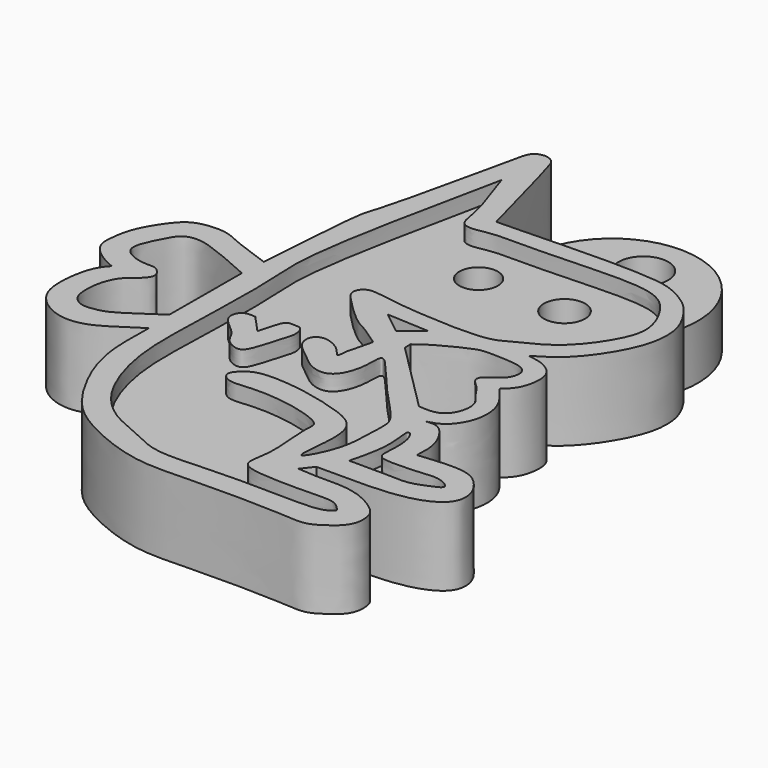
from build123d import *

# Parameters (mm, degrees)
F0_R     = 1.5875
F1_DEPTH = 3.5
F2_DEPTH = 5
F0_R_2   = 1.232335268
F0_R_3   = 1.3163060288
F3_DEPTH = 4


with BuildPart() as f1:
    # F0 (on Top) → F1 (new body)
    with BuildSketch(Plane.XY):
        with BuildLine():
            ThreePointArc((7.7396839065, 7.6562843864), (2.876112499, 14.2735710383), (-3.1393277808, 8.6827493))
            add(Edge.make_bspline(
                [(7.7396839065, 7.6562843864), (7.3353299787, 7.973602479), (6.4438153813, 8.4373196017), (5.3505573558, 8.7172548987), (2.2733176788, 8.8551510577), (-1.5200905611, 8.72823856), (-2.9921978835, 8.6867854752), (-3.1393277808, 8.6827493)],
                knots=[0.5199470909, 0.5199470909, 0.5199470909, 0.5199470909, 0.5894579981, 0.6559651047, 0.7655467002, 0.9062629632, 0.9227053128, 0.9227053128, 0.9227053128, 0.9227053128], degree=3))
        make_face()
        with Locations((2.3594668601, 11.3245500252)):
            Circle(F0_R, mode=Mode.SUBTRACT)
    extrude(amount=F1_DEPTH)

    # F0 (on Top) → F2 (join)
    with BuildSketch(Plane.XY):
        with BuildLine():
            add(Edge.make_bspline(
                [(-6.7131146789, 15.2167417109), (-6.7630142956, 15.3168491665), (-6.8653345872, 15.522121766), (-7.2052915444, 15.7161816908), (-7.396003952, 15.7313820718), (-7.4842846952, 15.7384183258)],
                knots=[0, 0, 0, 0, 0.3383046494, 0.6937013273, 1, 1, 1, 1], degree=3))
            add(Edge.make_bspline(
                [(-7.4842846952, 15.7384183258), (-7.6833791963, 15.7087810619), (-8.2273154738, 15.6278105532), (-8.5755493402, 13.8226699376), (-10.2204148253, 6.3864002607), (-10.7099999749, 5.2494188634), (-10.8984393791, 3.2367073829), (-11.2012900556, -0.9688888347), (-11.2547825871, -1.74682524), (-11.2720867619, -1.9984780811)],
                knots=[0, 0, 0, 0, 0.0725660877, 0.1982542332, 0.4637494997, 0.5729413296, 0.7071856858, 0.9052781775, 1, 1, 1, 1], degree=3))
            add(Edge.make_bspline(
                [(-11.2720867619, -1.9984780811), (-12.1304833145, -1.7025692667), (-13.6105611581, -1.1923527723), (-14.7471082661, -0.5522200993), (-16.6114662993, -0.6903068662), (-17.5337750522, -1.5042948558), (-18.6447251215, -3.2806224042), (-18.8297672099, -4.567574403), (-18.9411752234, -5.7397105059), (-17.8687660769, -6.6902392946), (-17.223731343, -6.9699811885), (-16.9197693467, -7.1018049493)],
                knots=[0, 0, 0, 0, 0.1446673864, 0.2494406491, 0.3684070195, 0.470057624, 0.6008186566, 0.7063885072, 0.8011402581, 0.9062906213, 1, 1, 1, 1], degree=3))
            add(Edge.make_bspline(
                [(-16.9197693467, -7.1018049493), (-17.121853175, -7.334070705), (-17.6312974966, -7.9196023199), (-18.0214851857, -10.3708574365), (-17.4675692026, -11.9480527547), (-15.888253352, -13.0295682461), (-14.0104892978, -13.0017665671), (-12.3744063178, -11.8865906073), (-11.6140966158, -11.4023105401), (-11.2720867619, -11.1844670027)],
                knots=[0, 0, 0, 0, 0.1124661014, 0.2835220277, 0.4251282402, 0.5715547262, 0.7197766762, 0.8739472379, 1, 1, 1, 1], degree=3))
            add(Edge.make_bspline(
                [(-11.2720867619, -11.1844670027), (-11.2932760201, -11.9793550496), (-11.3361432925, -13.5874661953), (-10.9866863237, -16.0037984915), (-9.2960385187, -19.2768428418), (-7.5572810602, -20.91483257), (-4.7286591812, -22.236723075), (-2.2057377886, -22.8409314499), (0.8374936317, -22.6656578), (6.0660421038, -22.6714198607), (7.9715621986, -22.9342932012), (8.9640566764, -22.3186765558), (10.0337379973, -21.5043624838), (10.0586932775, -20.2123362794), (9.6218985448, -19.4862490915), (7.7686135277, -18.3675422544), (5.3849969333, -18.5073030921), (4.4542524622, -18.4299059235), (4.0605748072, -18.3971691877)],
                knots=[0, 0, 0, 0, 0.0652108629, 0.131925893, 0.2121575983, 0.2782386701, 0.3520611194, 0.419387045, 0.4947765127, 0.5923853593, 0.6499376006, 0.693755899, 0.7418498565, 0.7871780839, 0.8250004336, 0.8857830065, 0.9516895565, 1, 1, 1, 1], degree=3))
            add(Edge.make_bspline(
                [(4.0605748072, -18.3971691877), (4.2495870342, -18.1552339345), (4.4385992611, -17.9132986814), (4.6276114881, -17.6713634282)],
                knots=[0, 0, 0, 0, 0.9210453832, 0.9210453832, 0.9210453832, 0.9210453832], degree=3))
            add(Edge.make_bspline(
                [(4.6276114881, -17.6713634282), (5.5246286995, -17.6794030058), (7.3781177081, -17.6960150266), (10.4621808749, -17.573742901), (12.502468857, -16.5423783026), (12.5727909991, -15.112637135), (11.914377568, -14.0907026512), (10.8629332383, -13.2476090299), (8.4772078301, -13.4730328418), (7.9465266149, -13.5248848276), (7.7576520853, -13.5433394462)],
                knots=[0, 0, 0, 0, 0.1579493428, 0.3263676182, 0.4620676098, 0.5656508391, 0.6673788049, 0.7757713264, 0.9201948664, 1, 1, 1, 1], degree=3))
            add(Edge.make_bspline(
                [(7.7576520853, -13.5433394462), (7.7781992438, -13.1846724057), (7.8197978893, -12.4585348684), (7.4964190811, -11.4085784874), (6.6820786936, -10.3099866048), (6.0622817749, -10.3969744638), (5.7843648829, -10.4359798133)],
                knots=[0, 0, 0, 0, 0.2513917168, 0.508953825, 0.7798149318, 1, 1, 1, 1], degree=3))
            add(Edge.make_bspline(
                [(5.7843648829, -10.4359798133), (6.122828556, -10.352185831), (6.8814829381, -10.164364576), (7.823853652, -8.6668950344), (7.7231720162, -7.0876023237), (7.1644552358, -6.1394390993), (6.7184744829, -5.6216717071), (6.4988322556, -5.36667509)],
                knots=[0, 0, 0, 0, 0.1847887634, 0.4141974938, 0.6354798376, 0.8204765119, 1, 1, 1, 1], degree=3))
            add(Edge.make_bspline(
                [(6.4988322556, -5.36667509), (6.7365615309, -5.1548853315), (7.2498798226, -4.6975770889), (7.5426500943, -3.3471962786), (7.2946518666, -2.4030372986), (6.3854380874, -1.8088378836), (5.7345252153, -1.7159116839), (5.4101222195, -1.6695989762)],
                knots=[0, 0, 0, 0, 0.194435585, 0.4198361444, 0.6084124825, 0.8048399882, 1, 1, 1, 1], degree=3))
            add(Edge.make_bspline(
                [(5.4101222195, -1.6695989762), (5.8636217221, -1.4034917527), (6.8387354434, -0.8313085342), (8.2222581931, 0.7923438764), (9.4089783772, 3.0481913568), (9.4974224368, 4.8880648389), (9.0555669611, 6.0933365127), (8.3540052121, 7.1451977741), (7.8104248025, 7.6007702325), (7.7396839065, 7.6562843864)],
                knots=[0, 0, 0, 0, 0.0795715401, 0.171094566, 0.2714456318, 0.3544356396, 0.4243833943, 0.5077862993, 0.5199470909, 0.5199470909, 0.5199470909, 0.5199470909], degree=3))
            add(Edge.make_bspline(
                [(7.7396839065, 7.6562843864), (7.3353299787, 7.973602479), (6.4438153813, 8.4373196017), (5.3505573558, 8.7172548987), (2.2733176788, 8.8551510577), (-1.5200905611, 8.72823856), (-2.9921978835, 8.6867854752), (-3.1393277808, 8.6827493)],
                knots=[0.5199470909, 0.5199470909, 0.5199470909, 0.5199470909, 0.5894579981, 0.6559651047, 0.7655467002, 0.9062629632, 0.9227053128, 0.9227053128, 0.9227053128, 0.9227053128], degree=3))
            add(Edge.make_bspline(
                [(-3.1393277808, 8.6827493), (-3.8309782839, 8.6637754365), (-4.3704584754, 8.6514479666), (-4.909938667, 8.6391204968)],
                knots=[0.9227053128, 0.9227053128, 0.9227053128, 0.9227053128, 1, 1, 1, 1], degree=3))
            add(Edge.make_bspline(
                [(-4.909938667, 8.6391204968), (-5.6676122103, 11.4786248377), (-6.5700733675, 14.8607442165), (-6.6933384703, 15.1675231974), (-6.7131146789, 15.2167417109)],
                knots=[0, 0, 0, 0, 0.8395636058, 1, 1, 1, 1], degree=3))
        make_face()
        with BuildLine():
            add(Edge.make_bspline(
                [(-11.3625265658, -3.6352192983), (-11.8157661278, -3.4276743062), (-12.7127614565, -3.0169270898), (-14.0627229714, -2.4879860259), (-15.0574666098, -2.1276094928), (-16.227253194, -2.1976389225), (-16.7429117394, -3.1793467277), (-17.3183412593, -4.2760627928), (-17.4325181312, -5.133713404), (-16.7331254262, -5.6817840075), (-15.7684086672, -5.8818783678), (-15.1290414203, -5.7888695808), (-14.7091473081, -6.2043035113), (-14.5112016042, -6.6120731564), (-14.9739178775, -7.2451939143), (-15.7381697185, -7.6986460025), (-16.2682191669, -8.7861940115), (-16.3697230564, -9.9282690647), (-16.240950057, -10.8710013924), (-15.5160234132, -11.3652392246), (-14.7939431208, -11.3008276823), (-13.9624142658, -11.1387702282), (-12.8118329155, -10.3720343591), (-11.8810583714, -9.7428391859), (-11.3852079958, -9.4076488167)],
                knots=[0, 0, 0, 0, 0.0570006065, 0.1128085058, 0.1609819563, 0.2079447649, 0.2552861136, 0.3077634052, 0.3483163014, 0.3895762402, 0.4358491617, 0.4722874849, 0.506185543, 0.5353909539, 0.573985279, 0.6181089129, 0.6682231081, 0.7184064337, 0.7624405274, 0.803276666, 0.8419544087, 0.8840530197, 0.9382317081, 1, 1, 1, 1], degree=3))
            add(Edge.make_bspline(
                [(-11.3852079958, -9.4076488167), (-11.3776475191, -7.4835056439), (-11.3700870425, -5.5593624711), (-11.3625265658, -3.6352192983)],
                knots=[0, 0, 0, 0, 5.772474079, 5.772474079, 5.772474079, 5.772474079], degree=3))
        make_face(mode=Mode.SUBTRACT)
        with BuildLine():
            add(Edge.make_bspline(
                [(6.0491887853, -11.9331190363), (5.9815161188, -11.9055706001), (5.7596005786, -11.8152324118), (5.9814555694, -12.9563461475), (5.9378786096, -14.4062015785), (5.6461479499, -15.5438873881), (5.4960786365, -16.1291249096)],
                knots=[0, 0, 0, 0, 0.1050987355, 0.3446449491, 0.6628784832, 1, 1, 1, 1], degree=3))
            add(Edge.make_bspline(
                [(5.4960786365, -16.1291249096), (6.1293635925, -16.1180142659), (7.3768350426, -16.0961280506), (9.2502239266, -16.2452071682), (10.1878434038, -15.8178730693), (11.3200709645, -15.4011399842), (10.2280450812, -14.7637896289), (9.2618587315, -14.9132649113), (7.5284359608, -14.9935530908), (6.3916887124, -14.9219257569), (6.35239181, -14.1607470542), (6.4584149188, -13.2690217896), (6.3096833011, -12.3129965003), (6.1241546881, -12.0424413264), (6.0491887853, -11.9331190363)],
                knots=[0, 0, 0, 0, 0.1127687281, 0.2221366028, 0.3081957509, 0.38034195, 0.4527296706, 0.5367059519, 0.6455458909, 0.7256715178, 0.7879509121, 0.8673264447, 0.946391057, 1, 1, 1, 1], degree=3))
        make_face(mode=Mode.SUBTRACT)
        with BuildLine():
            add(Edge.make_bspline(
                [(-7.5257173739, 12.3338634148), (-7.7914941856, 11.0746258762), (-8.4219487675, 8.0875628931), (-10.1252723915, -0.4147410716), (-9.6775748592, -3.3999002316), (-9.903350351, -9.8175564371), (-9.9705606988, -13.7609007122), (-8.8363542111, -17.4638623335), (-6.925915164, -19.6182538991), (-4.4916212533, -20.506992615), (-2.7447999089, -21.5072954642), (1.1042973864, -21.1384336112), (5.9192728073, -21.245809074), (7.6275573308, -21.2408492441), (8.4870069637, -20.769547862), (8.1874212021, -20.4849960922), (7.6942858982, -19.9848128942), (6.0155804716, -20.0818104668), (2.9338268169, -20.0814961096), (1.4030855154, -19.6528757439), (2.0505893855, -17.9419824478), (1.5517400842, -14.8455988958), (1.8682184745, -13.9918830166), (-0.1758507059, -13.2403517337), (-2.9350322976, -12.9401813812), (-4.6323686016, -13.2928756183), (-5.2931668546, -12.571621981), (-4.7868456945, -11.9672962567), (-4.0185976504, -11.3983637237), (-1.5208984725, -11.4872605001), (1.299201905, -12.1592839163), (3.321730471, -13.0064642836), (3.4131935936, -15.1624204797), (2.9711487612, -18.0452728269), (4.3678685535, -15.4123438284), (4.4467714778, -13.7616288193), (4.5141065479, -12.1985880007), (4.4527282818, -11.2817479838), (2.3804596876, -9.2795984134), (0.7479121016, -7.219047754), (-0.3807055734, -6.0287865422), (-0.1678861532, -7.8001853742), (-0.8716787966, -9.6282322495), (-2.3613367852, -9.4802358434), (-3.4078384646, -8.4687717116), (-4.2890590118, -7.8704670781), (-4.4885517874, -6.9524295355), (-3.8579923253, -6.4330503791), (-2.8969258717, -6.7679881768), (-2.3872350747, -7.226638344), (-2.0132288008, -7.7896736174), (-2.0244204873, -6.9407177358), (-1.7925533304, -6.3209214978), (-1.6560269259, -5.6928226345), (-1.583176665, -5.3576701321)],
                knots=[0, 0, 0, 0, 0.0302536175, 0.0717652216, 0.0978694291, 0.1333686985, 0.1626801972, 0.1901689678, 0.2141511575, 0.2367181338, 0.2564668931, 0.2846337336, 0.3165301542, 0.335392472, 0.3473287166, 0.3547060296, 0.3659733869, 0.3843182512, 0.4102468277, 0.4258249594, 0.4436546267, 0.4692273508, 0.4810729106, 0.5004702465, 0.5253596912, 0.5436904278, 0.5554699255, 0.5668571522, 0.5804251603, 0.6026667899, 0.6278012033, 0.6475244626, 0.6688026263, 0.6878850039, 0.7069516857, 0.7271169005, 0.7444035006, 0.7575224324, 0.7813756853, 0.8061856461, 0.8200572252, 0.8359808822, 0.8554759542, 0.8710540828, 0.8883910616, 0.9031524716, 0.9158460099, 0.9273637306, 0.9412353137, 0.9538427829, 0.9627422161, 0.9733982175, 0.9858053334, 1, 1, 1, 1], degree=3))
            add(Edge.make_bspline(
                [(-1.583176665, -5.3576701321), (-1.9863414466, -5.0650903894), (-2.7312853533, -4.524478941), (-3.6282856661, -4.1617029669), (-5.2086914951, -2.6169502715), (-5.9312354745, -1.8171234206), (-5.5385930779, -1.119936165), (-4.8001662392, -1.0270973914), (-3.3307730588, -1.4024578996), (2.5877742823, -1.7944194436), (3.7226728027, -0.9653691833), (5.9911187874, -0.0198996935), (7.7522803292, 2.3333824074), (8.4979497607, 4.3120127508), (7.4957635704, 6.4440246095), (5.8346237501, 7.9911434513), (-0.3460608054, 7.4305262534), (-4.1321723611, 7.6297716616), (-5.3541108037, 7.2414164454), (-6.2338623538, 7.4345794984), (-6.323467238, 8.9432063535), (-7.0598360204, 11.0199572202), (-7.5257173739, 12.3338634148)],
                knots=[0, 0, 0, 0, 0.0420556796, 0.0777079836, 0.1308242903, 0.1663494919, 0.1939531436, 0.2217157851, 0.2669100531, 0.3526984384, 0.3956526737, 0.4495850534, 0.5107773151, 0.5612985451, 0.6131904938, 0.6641308513, 0.7525724797, 0.823144131, 0.861532842, 0.8906003867, 0.9307857134, 1, 1, 1, 1], degree=3))
        make_face(mode=Mode.SUBTRACT)
        with BuildLine():
            add(Edge.make_bspline(
                [(4.5471671037, -9.3607110903), (3.0395753844, -7.8531194789), (1.5319836651, -6.3455278675), (0.0243919458, -4.8379362561)],
                knots=[0, 0, 0, 0, 6.396169739, 6.396169739, 6.396169739, 6.396169739], degree=3))
            add(Edge.make_bspline(
                [(0.0243919458, -4.8379362561), (0.0243919458, -4.6829002288), (0.0243919458, -4.5278642016), (0.0243919458, -4.3728281744)],
                knots=[0, 0, 0, 0, 0.4651080817, 0.4651080817, 0.4651080817, 0.4651080817], degree=3))
            add(Edge.make_bspline(
                [(0.0243919458, -4.3728281744), (0.3161020304, -4.1528347108), (0.9575197895, -3.669108841), (2.512949495, -2.9194756984), (3.2333246232, -2.6379801629), (4.1829397787, -2.6777203026), (5.5218751365, -2.7016152072), (6.183139701, -3.032733549), (6.3175064534, -3.5261472655), (6.0808177569, -4.3502810645), (4.9311514191, -4.8789825864), (4.8991254126, -5.4573886489), (5.5657639699, -5.9183616417), (5.9807323227, -6.7102837817), (6.6216646374, -7.3015045592), (6.608292763, -8.3590459112), (6.1046891108, -9.1930237279), (5.3797311281, -9.4281518884), (4.8323014824, -9.3838080408), (4.5471671037, -9.3607110903)],
                knots=[0, 0, 0, 0, 0.0683661626, 0.1503248367, 0.2050381158, 0.265543394, 0.338908647, 0.3901426777, 0.4315764933, 0.4876204117, 0.5559709936, 0.5966124754, 0.6508951379, 0.7106680058, 0.767740991, 0.8297908784, 0.8900063924, 0.9427086947, 1, 1, 1, 1], degree=3))
        make_face(mode=Mode.SUBTRACT)
        with BuildLine():
            add(Edge.make_bspline(
                [(-2.8763923328, -2.5720705744), (-2.4000818764, -2.9477881423), (-1.9237714199, -3.3235057102), (-1.4474609634, -3.6992232781)],
                knots=[0, 0, 0, 0, 1.8199774933, 1.8199774933, 1.8199774933, 1.8199774933], degree=3))
            add(Edge.make_bspline(
                [(-0.199981092, -2.7081591543), (-1.0921181723, -2.6627962943), (-1.9842552526, -2.6174334344), (-2.8763923328, -2.5720705744)],
                knots=[0, 0, 0, 0, 2.6798688833, 2.6798688833, 2.6798688833, 2.6798688833], degree=3))
            add(Edge.make_bspline(
                [(-1.4474609634, -3.6992232781), (-1.0316343396, -3.3688685702), (-0.6158077158, -3.0385138622), (-0.199981092, -2.7081591543)],
                knots=[0, 0, 0, 0, 1.5932401348, 1.5932401348, 1.5932401348, 1.5932401348], degree=3))
        make_face(mode=Mode.SUBTRACT)
    extrude(amount=F2_DEPTH)



with BuildPart() as f2:
    # F0 (on Top) → F2, piece 2 (new body)
    with BuildSketch(Plane.XY):
        with BuildLine():
            add(Edge.make_bspline(
                [(-7.8938184306, -6.8975165486), (-7.5409780256, -7.2824334105), (-7.1881376207, -7.6673502723), (-6.8352972157, -8.0522671342)],
                knots=[0, 0, 0, 0, 1.5664980297, 1.5664980297, 1.5664980297, 1.5664980297], degree=3))
            add(Edge.make_bspline(
                [(-6.8352972157, -8.0522671342), (-6.7286223912, -7.6388846563), (-6.5489562972, -6.9426490127), (-6.2987339718, -6.3176736302), (-5.7427448889, -6.4040630477), (-5.3324614926, -6.3592055442), (-5.0645166123, -7.1009002958), (-5.4135314873, -8.0405307517), (-5.8270822849, -9.6394539252), (-6.2861973578, -10.3168970166), (-7.3612192676, -9.8482319458), (-7.6120218395, -8.9886745958), (-8.4826576687, -8.3443231958), (-9.0615828349, -7.6958577754), (-8.7393542092, -6.8344820295), (-8.1810528036, -6.8761032849), (-7.8938184306, -6.8975165486)],
                knots=[0, 0, 0, 0, 0.0868289116, 0.1462407974, 0.2013177644, 0.2488152659, 0.3112419466, 0.3925423957, 0.4954655018, 0.5598103377, 0.6365107569, 0.7109472441, 0.7928472001, 0.8642110026, 0.9301394065, 1, 1, 1, 1], degree=3))
        make_face()
    extrude(amount=F2_DEPTH)


with BuildPart() as f1_1:
    add(f1.part)

    add(f2.part)  # F3 merges F2
    # F0 (on Top) → F3 (join)
    with BuildSketch(Plane.XY):
        with BuildLine():
            add(Edge.make_bspline(
                [(-1.583176665, -5.3576701321), (-1.9863414466, -5.0650903894), (-2.7312853533, -4.524478941), (-3.6282856661, -4.1617029669), (-5.2086914951, -2.6169502715), (-5.9312354745, -1.8171234206), (-5.5385930779, -1.119936165), (-4.8001662392, -1.0270973914), (-3.3307730588, -1.4024578996), (2.5877742823, -1.7944194436), (3.7226728027, -0.9653691833), (5.9911187874, -0.0198996935), (7.7522803292, 2.3333824074), (8.4979497607, 4.3120127508), (7.4957635704, 6.4440246095), (5.8346237501, 7.9911434513), (-0.3460608054, 7.4305262534), (-4.1321723611, 7.6297716616), (-5.3541108037, 7.2414164454), (-6.2338623538, 7.4345794984), (-6.323467238, 8.9432063535), (-7.0598360204, 11.0199572202), (-7.5257173739, 12.3338634148)],
                knots=[0, 0, 0, 0, 0.0420556796, 0.0777079836, 0.1308242903, 0.1663494919, 0.1939531436, 0.2217157851, 0.2669100531, 0.3526984384, 0.3956526737, 0.4495850534, 0.5107773151, 0.5612985451, 0.6131904938, 0.6641308513, 0.7525724797, 0.823144131, 0.861532842, 0.8906003867, 0.9307857134, 1, 1, 1, 1], degree=3))
            add(Edge.make_bspline(
                [(-7.5257173739, 12.3338634148), (-7.7914941856, 11.0746258762), (-8.4219487675, 8.0875628931), (-10.1252723915, -0.4147410716), (-9.6775748592, -3.3999002316), (-9.903350351, -9.8175564371), (-9.9705606988, -13.7609007122), (-8.8363542111, -17.4638623335), (-6.925915164, -19.6182538991), (-4.4916212533, -20.506992615), (-2.7447999089, -21.5072954642), (1.1042973864, -21.1384336112), (5.9192728073, -21.245809074), (7.6275573308, -21.2408492441), (8.4870069637, -20.769547862), (8.1874212021, -20.4849960922), (7.6942858982, -19.9848128942), (6.0155804716, -20.0818104668), (2.9338268169, -20.0814961096), (1.4030855154, -19.6528757439), (2.0505893855, -17.9419824478), (1.5517400842, -14.8455988958), (1.8682184745, -13.9918830166), (-0.1758507059, -13.2403517337), (-2.9350322976, -12.9401813812), (-4.6323686016, -13.2928756183), (-5.2931668546, -12.571621981), (-4.7868456945, -11.9672962567), (-4.0185976504, -11.3983637237), (-1.5208984725, -11.4872605001), (1.299201905, -12.1592839163), (3.321730471, -13.0064642836), (3.4131935936, -15.1624204797), (2.9711487612, -18.0452728269), (4.3678685535, -15.4123438284), (4.4467714778, -13.7616288193), (4.5141065479, -12.1985880007), (4.4527282818, -11.2817479838), (2.3804596876, -9.2795984134), (0.7479121016, -7.219047754), (-0.3807055734, -6.0287865422), (-0.1678861532, -7.8001853742), (-0.8716787966, -9.6282322495), (-2.3613367852, -9.4802358434), (-3.4078384646, -8.4687717116), (-4.2890590118, -7.8704670781), (-4.4885517874, -6.9524295355), (-3.8579923253, -6.4330503791), (-2.8969258717, -6.7679881768), (-2.3872350747, -7.226638344), (-2.0132288008, -7.7896736174), (-2.0244204873, -6.9407177358), (-1.7925533304, -6.3209214978), (-1.6560269259, -5.6928226345), (-1.583176665, -5.3576701321)],
                knots=[0, 0, 0, 0, 0.0302536175, 0.0717652216, 0.0978694291, 0.1333686985, 0.1626801972, 0.1901689678, 0.2141511575, 0.2367181338, 0.2564668931, 0.2846337336, 0.3165301542, 0.335392472, 0.3473287166, 0.3547060296, 0.3659733869, 0.3843182512, 0.4102468277, 0.4258249594, 0.4436546267, 0.4692273508, 0.4810729106, 0.5004702465, 0.5253596912, 0.5436904278, 0.5554699255, 0.5668571522, 0.5804251603, 0.6026667899, 0.6278012033, 0.6475244626, 0.6688026263, 0.6878850039, 0.7069516857, 0.7271169005, 0.7444035006, 0.7575224324, 0.7813756853, 0.8061856461, 0.8200572252, 0.8359808822, 0.8554759542, 0.8710540828, 0.8883910616, 0.9031524716, 0.9158460099, 0.9273637306, 0.9412353137, 0.9538427829, 0.9627422161, 0.9733982175, 0.9858053334, 1, 1, 1, 1], degree=3))
        make_face()
        with BuildLine():
            add(Edge.make_bspline(
                [(-6.8352972157, -8.0522671342), (-6.7286223912, -7.6388846563), (-6.5489562972, -6.9426490127), (-6.2987339718, -6.3176736302), (-5.7427448889, -6.4040630477), (-5.3324614926, -6.3592055442), (-5.0645166123, -7.1009002958), (-5.4135314873, -8.0405307517), (-5.8270822849, -9.6394539252), (-6.2861973578, -10.3168970166), (-7.3612192676, -9.8482319458), (-7.6120218395, -8.9886745958), (-8.4826576687, -8.3443231958), (-9.0615828349, -7.6958577754), (-8.7393542092, -6.8344820295), (-8.1810528036, -6.8761032849), (-7.8938184306, -6.8975165486)],
                knots=[0, 0, 0, 0, 0.0868289116, 0.1462407974, 0.2013177644, 0.2488152659, 0.3112419466, 0.3925423957, 0.4954655018, 0.5598103377, 0.6365107569, 0.7109472441, 0.7928472001, 0.8642110026, 0.9301394065, 1, 1, 1, 1], degree=3))
            add(Edge.make_bspline(
                [(-7.8938184306, -6.8975165486), (-7.5409780256, -7.2824334105), (-7.1881376207, -7.6673502723), (-6.8352972157, -8.0522671342)],
                knots=[0, 0, 0, 0, 1.5664980297, 1.5664980297, 1.5664980297, 1.5664980297], degree=3))
        make_face(mode=Mode.SUBTRACT)
        with Locations((-2.9569629114, 4.7859582119)):
            Circle(F0_R_2, mode=Mode.SUBTRACT)
        with Locations((2.5922569912, 4.7218054533)):
            Circle(F0_R_3, mode=Mode.SUBTRACT)
        with BuildLine():
            add(Edge.make_bspline(
                [(5.4960786365, -16.1291249096), (6.1293635925, -16.1180142659), (7.3768350426, -16.0961280506), (9.2502239266, -16.2452071682), (10.1878434038, -15.8178730693), (11.3200709645, -15.4011399842), (10.2280450812, -14.7637896289), (9.2618587315, -14.9132649113), (7.5284359608, -14.9935530908), (6.3916887124, -14.9219257569), (6.35239181, -14.1607470542), (6.4584149188, -13.2690217896), (6.3096833011, -12.3129965003), (6.1241546881, -12.0424413264), (6.0491887853, -11.9331190363)],
                knots=[0, 0, 0, 0, 0.1127687281, 0.2221366028, 0.3081957509, 0.38034195, 0.4527296706, 0.5367059519, 0.6455458909, 0.7256715178, 0.7879509121, 0.8673264447, 0.946391057, 1, 1, 1, 1], degree=3))
            add(Edge.make_bspline(
                [(6.0491887853, -11.9331190363), (5.9815161188, -11.9055706001), (5.7596005786, -11.8152324118), (5.9814555694, -12.9563461475), (5.9378786096, -14.4062015785), (5.6461479499, -15.5438873881), (5.4960786365, -16.1291249096)],
                knots=[0, 0, 0, 0, 0.1050987355, 0.3446449491, 0.6628784832, 1, 1, 1, 1], degree=3))
        make_face()
    extrude(amount=F3_DEPTH)


solid = f1_1.part
